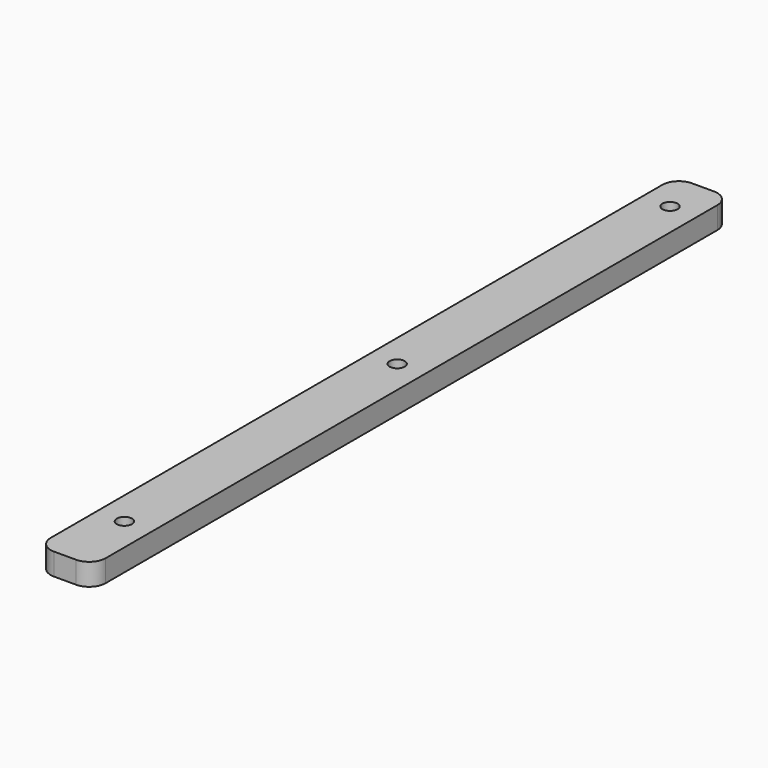
from build123d import *

# Parameters (mm, degrees)
CYLINDER095_R     = 1.38
CYLINDER095_DEPTH = 13
CYLINDER097_R     = 1.38
CYLINDER097_DEPTH = 13
CYLINDER096_R     = 1.38
CYLINDER096_DEPTH = 13
BOX050_W          = 10
BOX050_H          = 145
BOX050_DEPTH      = 4
FILLET011_R       = 3


with BuildPart() as cylinder095:
    # Cylinder095 → Cylinder095 (new body)
    with BuildSketch(Plane(origin=(25, 188.5, 59), x_dir=(1, 0, 0), z_dir=(0, 0, 1))):
        Circle(CYLINDER095_R)
    extrude(amount=CYLINDER095_DEPTH)


with BuildPart() as cylinder097:
    # Cylinder097 → Cylinder097 (new body)
    with BuildSketch(Plane(origin=(25, 126.5, 59), x_dir=(1, 0, 0), z_dir=(0, 0, 1))):
        Circle(CYLINDER097_R)
    extrude(amount=CYLINDER097_DEPTH)


with BuildPart() as cylinder096:
    # Cylinder096 → Cylinder096 (new body)
    with BuildSketch(Plane(origin=(25, 64.5, 59), x_dir=(1, 0, 0), z_dir=(0, 0, 1))):
        Circle(CYLINDER096_R)
    extrude(amount=CYLINDER096_DEPTH)


with BuildPart() as obj1:
    # Box050 → Box050 (new body)
    with BuildSketch(Plane(origin=(20, 51, 66), x_dir=(1, 0, 0), z_dir=(0, 0, 1))):
        with Locations((5, 72.5)):
            Rectangle(BOX050_W, BOX050_H)
    extrude(amount=BOX050_DEPTH)

    # Fillet011
    fillet011_edges = [obj1.edges().sort_by_distance(p)[0] for p in [
        (20, 51, 68),
        (20, 196, 68),
        (30, 51, 68),
        (30, 196, 68),
    ]]
    fillet(fillet011_edges, radius=FILLET011_R)

    # Cut067: cut Cylinder096
    add(cylinder096.part, mode=Mode.SUBTRACT)

    # Cut068: cut Cylinder097
    add(cylinder097.part, mode=Mode.SUBTRACT)

    # Cut069: cut Cylinder095
    add(cylinder095.part, mode=Mode.SUBTRACT)


with BuildPart() as obj1_1:
    # Cut069 placement: moved
    add(obj1.part.moved(Location((0, -14, 0))))


solid = obj1_1.part
